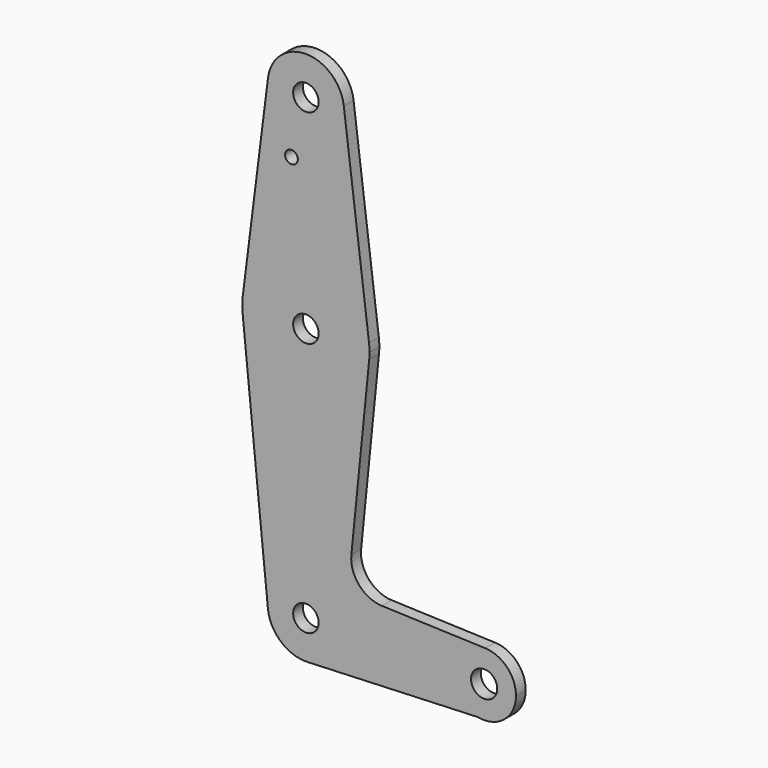
from build123d import *

# Parameters (mm, degrees)
F0_R     = 3.175
F0_R_2   = 3.262783
F0_R_3   = 1.5875
F1_DEPTH = 3.048


with BuildPart() as f1:
    # F0 (on Front) → F1 (new body)
    with BuildSketch(Plane.XZ):
        with BuildLine():
            ThreePointArc((0, -9.539254), (6.483494, -6.618988), (9.137754, -0.022129))
            ThreePointArc((9.137754, -0.022129), (-0.864094, 9.490927), (-9.864502, -0.974629))
            ThreePointArc((-9.864502, -0.974629), (-6.631865, -7.214511), (0, -9.539254))
        make_face()
        with Locations((-0.387246, -0.022129)):
            Circle(F0_R, mode=Mode.SUBTRACT)
        with BuildLine():
            ThreePointArc((-9.864502, -0.974629), (-0.864094, 9.490927), (9.137754, -0.022129))
            ThreePointArc((9.137754, -0.022129), (6.483494, -6.618988), (0, -9.539254))
            Line((0, -9.539254), (42.523692, -7.808989))
            ThreePointArc((42.523692, -7.808989), (36.178011, 0.89151), (44.345159, 7.910346))
            Line((44.345159, 7.910346), (18.581082, 8.827577))
            ThreePointArc((18.581082, 8.827577), (12.873958, 11.545334), (10.95359, 17.567763))
            Line((10.95359, 17.567763), (15.408179, 61.890371))
            ThreePointArc((15.408179, 61.890371), (-0.387246, 47.602871), (-16.182672, 61.890371))
            Line((-16.182672, 61.890371), (-9.864502, -0.974629))
        make_face()
        with BuildLine():
            ThreePointArc((-16.137843, 65.461382), (-16.260996, 63.677141), (-16.182672, 61.890371))
            ThreePointArc((-16.182672, 61.890371), (-0.387246, 47.602871), (15.408179, 61.890371))
            ThreePointArc((15.408179, 61.890371), (15.467848, 62.683125), (15.487754, 63.477871))
            ThreePointArc((15.487754, 63.477871), (15.456622, 64.471575), (15.363351, 65.461382))
            ThreePointArc((15.363351, 65.461382), (-0.387246, 79.352871), (-16.137843, 65.461382))
        make_face()
        with Locations((-0.387246, 63.477871)):
            Circle(F0_R, mode=Mode.SUBTRACT)
        with BuildLine():
            Line((46.229366, -7.658208), (42.523692, -7.808989))
            ThreePointArc((42.523692, -7.808989), (44.385459, -7.953066), (46.229366, -7.658208))
        make_face()
        with BuildLine():
            ThreePointArc((44.345159, 7.910346), (36.178011, 0.89151), (42.523692, -7.808989))
            Line((42.523692, -7.808989), (46.229366, -7.658208))
            ThreePointArc((46.229366, -7.658208), (50.395265, -4.807859), (52.000254, -0.022129))
            ThreePointArc((52.000254, -0.022129), (49.774386, 5.489782), (44.345159, 7.910346))
        make_face()
        with Locations((44.062754, -0.022129)):
            Circle(F0_R_2, mode=Mode.SUBTRACT)
        with BuildLine():
            Line((-9.837605, 115.490107), (-16.137843, 65.461382))
            ThreePointArc((-16.137843, 65.461382), (-0.387246, 79.352871), (15.363351, 65.461382))
            Line((15.363351, 65.461382), (9.063112, 115.490107))
            ThreePointArc((9.063112, 115.490107), (9.119075, 114.896222), (9.137754, 114.3))
            ThreePointArc((9.137754, 114.3), (-0.983469, 104.793679), (-9.837605, 115.490107))
        make_face()
        with Locations((-3.982905, 100.003071)):
            Circle(F0_R_3, mode=Mode.SUBTRACT)
        with BuildLine():
            ThreePointArc((9.063112, 115.490107), (-0.387246, 123.825), (-9.837605, 115.490107))
            ThreePointArc((-9.837605, 115.490107), (-0.983469, 104.793679), (9.137754, 114.3))
            ThreePointArc((9.137754, 114.3), (9.119075, 114.896222), (9.063112, 115.490107))
        make_face()
        with Locations((-0.387246, 114.3)):
            Circle(F0_R, mode=Mode.SUBTRACT)
    extrude(amount=F1_DEPTH)


solid = f1.part
